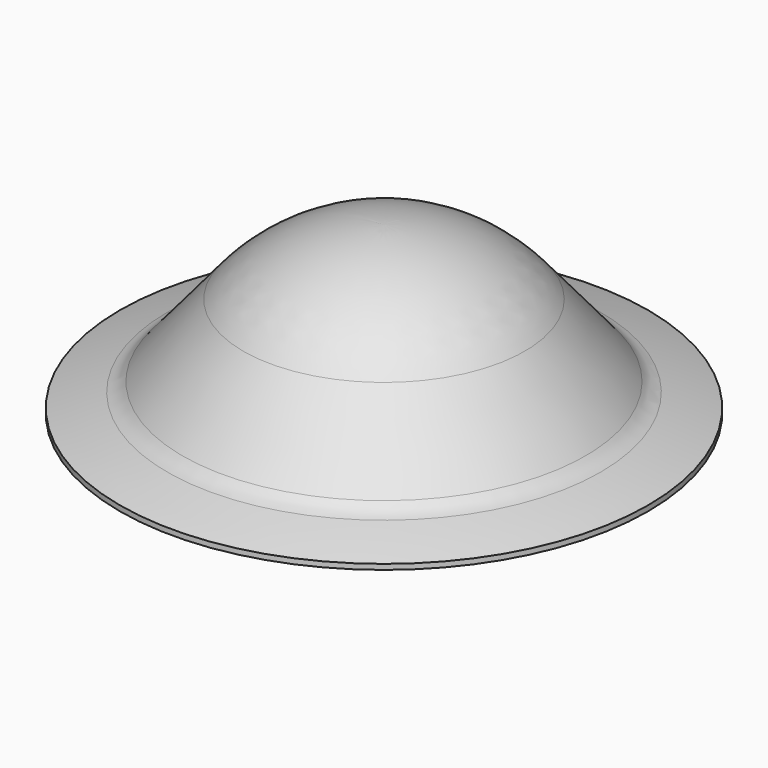
from build123d import *


with BuildPart() as f1:
    # F0 (on Front) → F1 (revolve)
    with BuildSketch(Plane.XZ):
        with BuildLine():
            Line((0, 2.34), (0, 19))
            ThreePointArc((0, 19), (-8.029747, 17.219848), (-14.554844, 12.212965))
            Line((-14.554844, 12.212965), (-20.834549, 4.729104))
            ThreePointArc((-20.834549, 4.729104), (-21.53399, 4.118927), (-22.386467, 3.751755))
            ThreePointArc((-22.386467, 3.751755), (-24.85326, 3.080773), (-27.3, 2.34))
            Line((-27.3, 2.34), (-18.855355, 2.34))
            Line((-18.855355, 2.34), (0, 2.34))
        make_face()
        with BuildLine():
            Line((0, 1.79), (0, 2.34))
            Line((0, 2.34), (-18.855355, 2.34))
            ThreePointArc((-18.855355, 2.34), (-18.887426, 2.065219), (-18.915494, 1.79))
            Line((-18.915494, 1.79), (0, 1.79))
        make_face()
        with BuildLine():
            ThreePointArc((-18.915494, 1.79), (-18.887426, 2.065219), (-18.855355, 2.34))
            Line((-18.855355, 2.34), (-27.3, 2.34))
            Line((-27.3, 2.34), (-27.3, 1.79))
            Line((-27.3, 1.79), (-18.915494, 1.79))
        make_face()
    revolve(axis=Axis((0, 0, 14.190213), (0, 0, 1)))


solid = f1.part
